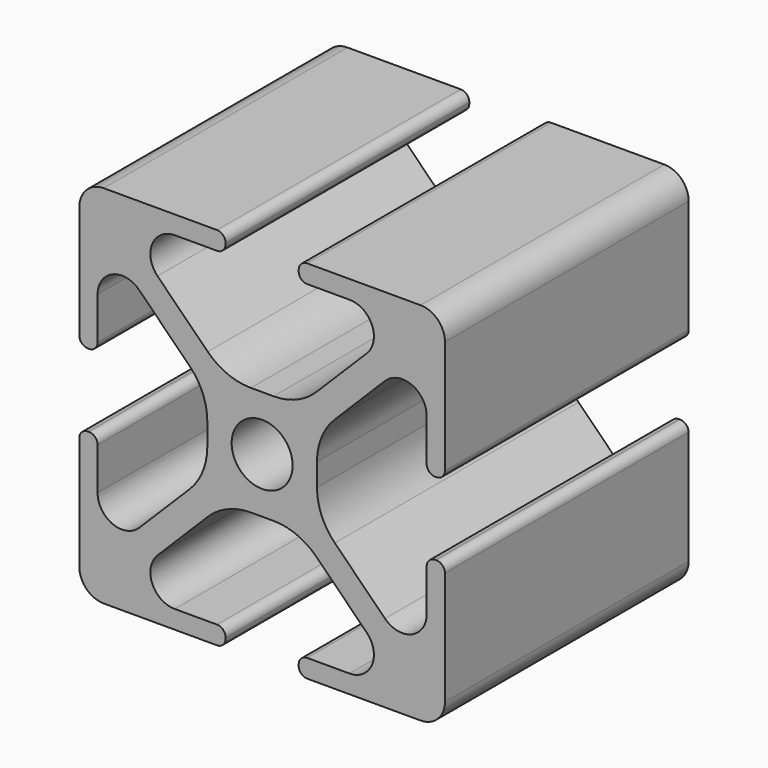
from build123d import *

# Parameters (mm, degrees)
F0_W     = 30
F0_H     = 30
F0_R     = 2.5
F1_DEPTH = 12.5
F2_R     = 2
F3_W     = 10.5
F3_H     = 6
F3_W_2   = 6
F3_H_2   = 10.5
F4_DEPTH = 25
F5_DEPTH = 25
F7_DEPTH = 25
F8_R     = 2
F9_R     = 0.7
F10_R    = 5


with BuildPart() as f1:
    # F0 (on Front) → F1 (new body, symmetric)
    with BuildSketch(Plane.XZ):
        Rectangle(F0_W, F0_H)
        Circle(F0_R, mode=Mode.SUBTRACT)
    extrude(amount=F1_DEPTH, both=True)

    # F2
    f2_edges = [f1.edges().sort_by_distance(p)[0] for p in [
        (15, 0, 15),
        (-15, 0, 15),
        (-15, 0, -15),
        (15, 0, -15),
    ]]
    fillet(f2_edges, radius=F2_R)

    # F3 (on face) → F4 (cut)
    with BuildSketch(Plane.XZ.offset(12.5)):
        with Locations((9.75, 0)):
            Rectangle(F3_W, F3_H)
        with Locations((0, 9.75)):
            Rectangle(F3_W_2, F3_H_2)
        with Locations((0, -9.75)):
            Rectangle(F3_W_2, F3_H_2)
        with Locations((-9.75, 0)):
            Rectangle(F3_W, F3_H)
    extrude(amount=-F4_DEPTH, mode=Mode.SUBTRACT)

    # F3 (on face) → F5 (cut)
    with BuildSketch(Plane.XZ.offset(12.5)):
        with Locations((9.75, 0)):
            Rectangle(F3_W, F3_H)
        with Locations((0, 9.75)):
            Rectangle(F3_W_2, F3_H_2)
        with Locations((0, -9.75)):
            Rectangle(F3_W_2, F3_H_2)
        with Locations((-9.75, 0)):
            Rectangle(F3_W, F3_H)
    extrude(amount=-F5_DEPTH, mode=Mode.SUBTRACT)

    # F6 (on face) → F7 (cut)
    with BuildSketch(Plane.XZ.offset(12.5)):
        Polygon((3, 13.5), (3, 4.5), (12, 13.5), align=None)
        Polygon((13.5, 12), (4.5, 3), (13.5, 3), align=None)
        Polygon((3, -4.5), (3, -13.5), (12, -13.5), align=None)
        Polygon((13.5, -3), (4.5, -3), (13.5, -12), align=None)
        Polygon((-3, 4.5), (-3, 13.5), (-12, 13.5), align=None)
        Polygon((-13.5, 3), (-4.5, 3), (-13.5, 12), align=None)
        Polygon((-13.5, -12), (-4.5, -3), (-13.5, -3), align=None)
        Polygon((-3, -13.5), (-3, -4.5), (-12, -13.5), align=None)
    extrude(amount=-F7_DEPTH, mode=Mode.SUBTRACT)

    # F8
    f8_edges = [f1.edges().sort_by_distance(p)[0] for p in [
        (-12, 0, -13.5),
        (12, 0, -13.5),
        (13.5, 0, -12),
        (-13.5, 0, -12),
        (13.5, 0, 12),
        (12, 0, 13.5),
        (-13.5, 0, 12),
        (-12, 0, 13.5),
    ]]
    fillet(f8_edges, radius=F8_R)

    # F9
    f9_edges = [f1.edges().sort_by_distance(p)[0] for p in [
        (13.5, 0, 3),
        (15, 0, 3),
        (15, 0, -3),
        (13.5, 0, -3),
        (3, 0, -15),
        (-3, 0, -15),
        (3, 0, -13.5),
        (-3, 0, -13.5),
        (-15, 0, -3),
        (-13.5, 0, -3),
        (-15, 0, 3),
        (-13.5, 0, 3),
        (3, 0, 13.5),
        (3, 0, 15),
        (-3, 0, 15),
        (-3, 0, 13.5),
    ]]
    fillet(f9_edges, radius=F9_R)

    # F10
    f10_edges = [f1.edges().sort_by_distance(p)[0] for p in [
        (4.5, 0, -3),
        (4.5, 0, 3),
        (-3, 0, -4.5),
        (3, 0, -4.5),
        (-4.5, 0, -3),
        (-4.5, 0, 3),
        (3, 0, 4.5),
        (-3, 0, 4.5),
    ]]
    fillet(f10_edges, radius=F10_R)


solid = f1.part
